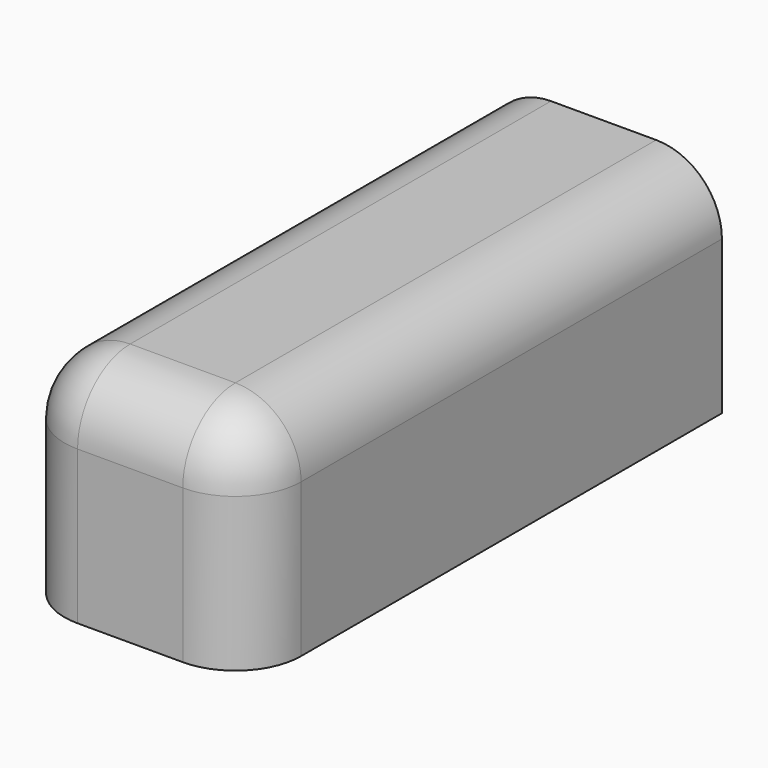
from build123d import *

# Parameters (mm, degrees)
F0_W     = 54
F0_H     = 150
F1_DEPTH = 50
F2_R     = 15
F3_R     = 15
F5_DEPTH = 5
F6_W     = 121.107407
F6_H     = 220.926333
F7_DEPTH = 5.001
F8_W     = 141.400545
F8_H     = 89.871116
F9_DEPTH = 50.001
F10_T    = -2.5


with BuildPart() as f1:
    # F0 (on Top) → F1 (new body)
    with BuildSketch(Plane.XY):
        Rectangle(F0_W, F0_H)
    extrude(amount=F1_DEPTH)

    # F2
    f2_edges = [f1.edges().sort_by_distance(p)[0] for p in [
        (27, -75, 25),
        (-27, -75, 25),
        (27, 75, 25),
        (-27, 75, 25),
    ]]
    fillet(f2_edges, radius=F2_R)

    # F3
    f3_edges = [f1.edges().sort_by_distance(p)[0] for p in [
        (-27, 0, 50),
    ]]
    fillet(f3_edges, radius=F3_R)

    # F4 (on face) → F5 (join)
    with BuildSketch(Plane(origin=(0, 0, 0), x_dir=(1, 0, 0), z_dir=(0, 0, -1))):
        with BuildLine():
            ThreePointArc((12, -75), (22.606602, -70.606602), (27, -60))
            Line((27, -60), (27, 60))
            ThreePointArc((27, 60), (22.606602, 70.606602), (12, 75))
            Line((12, 75), (-12, 75))
            ThreePointArc((-12, 75), (-22.606602, 70.606602), (-27, 60))
            Line((-27, 60), (-27, -60))
            ThreePointArc((-27, -60), (-22.606602, -70.606602), (-12, -75))
            Line((-12, -75), (12, -75))
        make_face()
    extrude(amount=F5_DEPTH)

    # F6 (on Top) → F7 (cut, through all)
    with BuildSketch(Plane.XY):
        with Locations((-1.455303, 11.194787)):
            Rectangle(F6_W, F6_H)
    extrude(amount=-F7_DEPTH, mode=Mode.SUBTRACT)

    # F8 (on face) → F9 (cut, through all)
    with BuildSketch(Plane(origin=(0, 0, 0), x_dir=(1, 0, 0), z_dir=(0, 0, -1))):
        with Locations((8.066163, -104.935558)):
            Rectangle(F8_W, F8_H)
    extrude(amount=-F9_DEPTH, mode=Mode.SUBTRACT)

    # F10
    f10_openings = [f1.faces().sort_by_distance(p)[0] for p in [
        (0, -6.638802, 0),
        (0, 60, 24.196941),
    ]]
    offset(amount=F10_T, openings=f10_openings)


solid = f1.part
